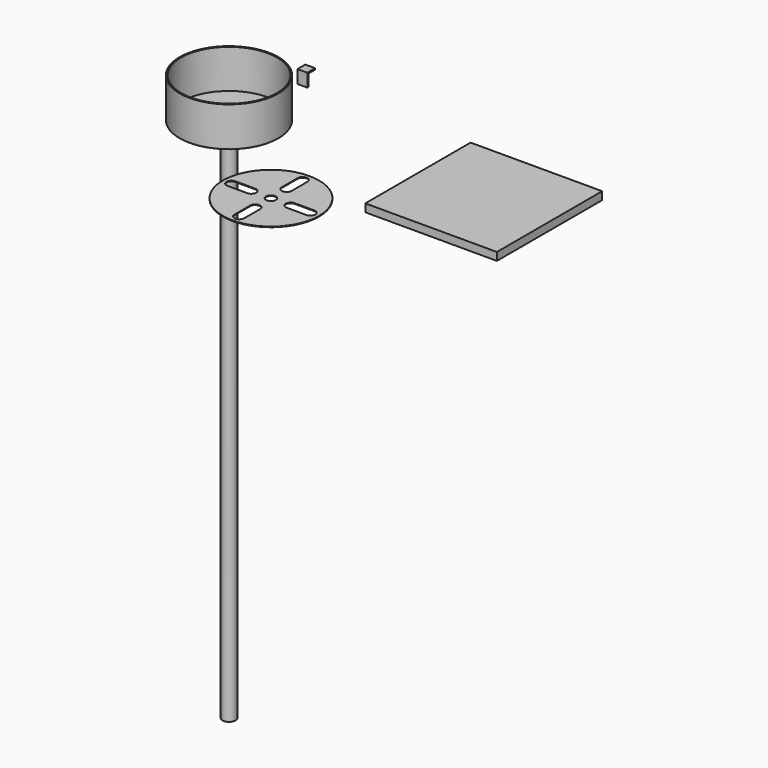
from build123d import *

# Parameters (mm, degrees)
F0_R     = 75
F0_R_2   = 73
F1_DEPTH = 60
F0_R_3   = 10
F2_DEPTH = 800
F3_DEPTH = 1
F4_DEPTH = 12
F0_W     = 200
F0_H     = 200
F0_R_4   = 7.5
F7_DEPTH = 1
F9_DEPTH = 15


with BuildPart() as f1:
    # F0 (on Top) → F1 (new body)
    with BuildSketch(Plane.XY):
        Circle(F0_R)
        Circle(F0_R_2, mode=Mode.SUBTRACT)
    extrude(amount=F1_DEPTH)


with BuildPart() as f2:
    # F0 (on Top) → F2 (new body)
    with BuildSketch(Plane.XY):
        Circle(F0_R_3)
    extrude(amount=-F2_DEPTH)


with BuildPart() as f3:
    # F0 (on Top) → F3 (new body)
    with BuildSketch(Plane.XY):
        Circle(F0_R)
        Circle(F0_R_2, mode=Mode.SUBTRACT)
        Circle(F0_R_2)
        Circle(F0_R_3, mode=Mode.SUBTRACT)
        Circle(F0_R_3)
    extrude(amount=F3_DEPTH)


with BuildPart() as f4:
    # F0 (on Top) → F4 (new body)
    with BuildSketch(Plane.XY):
        Circle(F0_R)
        Circle(F0_R_2, mode=Mode.SUBTRACT)
    extrude(amount=F4_DEPTH)


with BuildPart() as f4b:
    # F0 (on Top) → F4, piece 2 (new body)
    with BuildSketch(Plane.XY):
        with Locations((374.331599474, 15.927529335)):
            Rectangle(F0_W, F0_H)
        with Locations((374.331599474, 15.927529335)):
            Rectangle(F0_W, F0_H)
    extrude(amount=F4_DEPTH)


with BuildPart() as f4c:
    # F0 (on Top) → F4, piece 3 (new body)
    with BuildSketch(Plane.XY):
        with Locations((165.379524231, -127.1007210016)):
            Circle(F0_R_2)
        with BuildLine():
            ThreePointArc((157.8801363911, -157.1965438945), (165.3316118069, -149.6008740432), (172.879524231, -157.1007210016))
            Line((172.879524231, -157.1007210016), (172.879524231, -187.1007210016))
            ThreePointArc((172.879524231, -187.1007210016), (165.379524231, -194.6007210016), (157.879524231, -187.1007210016))
            Line((157.879524231, -187.1007210016), (157.8795242372, -187.1004139411))
            Line((157.8795242372, -187.1004139411), (157.8801363911, -157.1965438945))
        make_face(mode=Mode.SUBTRACT)
        with BuildLine():
            ThreePointArc((135.2837013381, -119.6013331617), (142.8793711894, -127.0528085775), (135.379524231, -134.6007210016))
            Line((135.379524231, -134.6007210016), (105.379524231, -134.6007210016))
            ThreePointArc((105.379524231, -134.6007210016), (97.879524231, -127.1007210016), (105.379524231, -119.6007210016))
            Line((105.379524231, -119.6007210016), (105.3798312914, -119.6007210079))
            Line((105.3798312914, -119.6007210079), (135.2837013381, -119.6013331617))
        make_face(mode=Mode.SUBTRACT)
        with Locations((165.379524231, -127.1007210016)):
            Circle(F0_R_4, mode=Mode.SUBTRACT)
        with BuildLine():
            ThreePointArc((172.8789120709, -97.0048981088), (165.4274366551, -104.60056796), (157.879524231, -97.1007210016))
            Line((157.879524231, -97.1007210016), (157.879524231, -67.1007210016))
            ThreePointArc((157.879524231, -67.1007210016), (165.379524231, -59.6007210016), (172.879524231, -67.1007210016))
            ThreePointArc((172.879524231, -67.1007210016), (172.8795242294, -67.1008745319), (172.8795242247, -67.1010280621))
            Line((172.8795242247, -67.1010280621), (172.8789120709, -97.0048981088))
        make_face(mode=Mode.SUBTRACT)
        with BuildLine():
            ThreePointArc((195.4753471238, -134.6001088415), (187.8796772725, -127.1486334257), (195.379524231, -119.6007210016))
            Line((195.379524231, -119.6007210016), (225.379524231, -119.6007210016))
            ThreePointArc((225.379524231, -119.6007210016), (232.879524231, -127.1007210016), (225.379524231, -134.6007210016))
            Line((225.379524231, -134.6007210016), (225.3792171705, -134.6007209953))
            Line((225.3792171705, -134.6007209953), (195.4753471238, -134.6001088415))
        make_face(mode=Mode.SUBTRACT)
    extrude(amount=F4_DEPTH)


with BuildPart() as f7:
    # F0 (on Top) → F7 (new body)
    with BuildSketch(Plane.XY):
        with Locations((165.379524231, -127.1007210016)):
            Circle(F0_R_2)
        with BuildLine():
            ThreePointArc((157.8801363911, -157.1965438945), (165.3316118069, -149.6008740432), (172.879524231, -157.1007210016))
            Line((172.879524231, -157.1007210016), (172.879524231, -187.1007210016))
            ThreePointArc((172.879524231, -187.1007210016), (165.379524231, -194.6007210016), (157.879524231, -187.1007210016))
            Line((157.879524231, -187.1007210016), (157.8795242372, -187.1004139411))
            Line((157.8795242372, -187.1004139411), (157.8801363911, -157.1965438945))
        make_face(mode=Mode.SUBTRACT)
        with BuildLine():
            ThreePointArc((135.2837013381, -119.6013331617), (142.8793711894, -127.0528085775), (135.379524231, -134.6007210016))
            Line((135.379524231, -134.6007210016), (105.379524231, -134.6007210016))
            ThreePointArc((105.379524231, -134.6007210016), (97.879524231, -127.1007210016), (105.379524231, -119.6007210016))
            Line((105.379524231, -119.6007210016), (105.3798312914, -119.6007210079))
            Line((105.3798312914, -119.6007210079), (135.2837013381, -119.6013331617))
        make_face(mode=Mode.SUBTRACT)
        with Locations((165.379524231, -127.1007210016)):
            Circle(F0_R_4, mode=Mode.SUBTRACT)
        with BuildLine():
            ThreePointArc((172.8789120709, -97.0048981088), (165.4274366551, -104.60056796), (157.879524231, -97.1007210016))
            Line((157.879524231, -97.1007210016), (157.879524231, -67.1007210016))
            ThreePointArc((157.879524231, -67.1007210016), (165.379524231, -59.6007210016), (172.879524231, -67.1007210016))
            ThreePointArc((172.879524231, -67.1007210016), (172.8795242294, -67.1008745319), (172.8795242247, -67.1010280621))
            Line((172.8795242247, -67.1010280621), (172.8789120709, -97.0048981088))
        make_face(mode=Mode.SUBTRACT)
        with BuildLine():
            ThreePointArc((195.4753471238, -134.6001088415), (187.8796772725, -127.1486334257), (195.379524231, -119.6007210016))
            Line((195.379524231, -119.6007210016), (225.379524231, -119.6007210016))
            ThreePointArc((225.379524231, -119.6007210016), (232.879524231, -127.1007210016), (225.379524231, -134.6007210016))
            Line((225.379524231, -134.6007210016), (225.3792171705, -134.6007209953))
            Line((225.3792171705, -134.6007209953), (195.4753471238, -134.6001088415))
        make_face(mode=Mode.SUBTRACT)
    extrude(amount=F7_DEPTH)


with BuildPart() as f9:
    # F8 (on Right) → F9 (new body)
    with BuildSketch(Plane.YZ):
        Polygon((144.8343504965, 13.4767872929), (144.8343504965, 15.4767872929), (129.8343504965, 15.4767872929), (129.933606843, -4.5232127071), (131.9335822139, -4.5132871947), (131.9335822139, 13.4767872929), align=None)
    extrude(amount=F9_DEPTH)


solid = Compound([f1.part, f2.part, f3.part, f4b.part, f7.part, f9.part])
